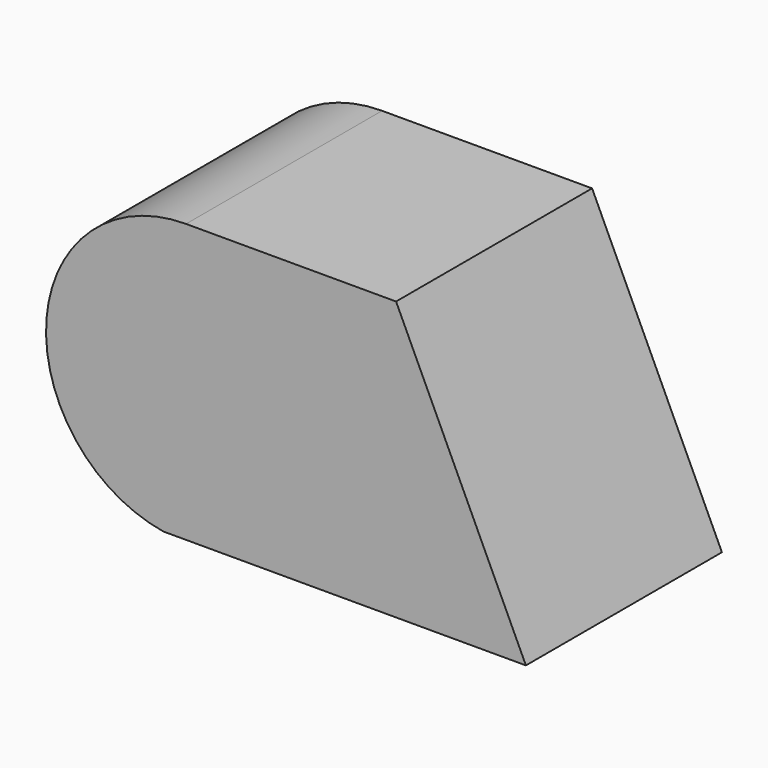
from build123d import *

# Parameters (mm, degrees)
F1_DEPTH = 35
F2_W     = 9.970975
F2_H     = 35
F3_DEPTH = 8


with BuildPart() as f1:
    # F0 (on Front) → F1 (new body)
    with BuildSketch(Plane.XZ):
        with BuildLine():
            Line((0, 39.733666), (-10.114827, 39.733666))
            ThreePointArc((-10.114827, 39.733666), (-30.048132, 21.365641), (-13.367894, 0))
            Line((-13.367894, 0), (0, 0))
            Line((0, 0), (10, 39.733666))
            Line((10, 39.733666), (0, 39.733666))
        make_face()
        Polygon((19.885173, 39.733666), (10, 39.733666), (0, 0), (38.43179, 0), align=None)
    extrude(amount=F1_DEPTH)

    # F2 (on face) → F3 (join)
    with BuildSketch(Plane.XY.offset(39.733666)):
        with Locations((4.985487, -17.5)):
            Rectangle(F2_W, F2_H)
    extrude(amount=-F3_DEPTH)


solid = f1.part
